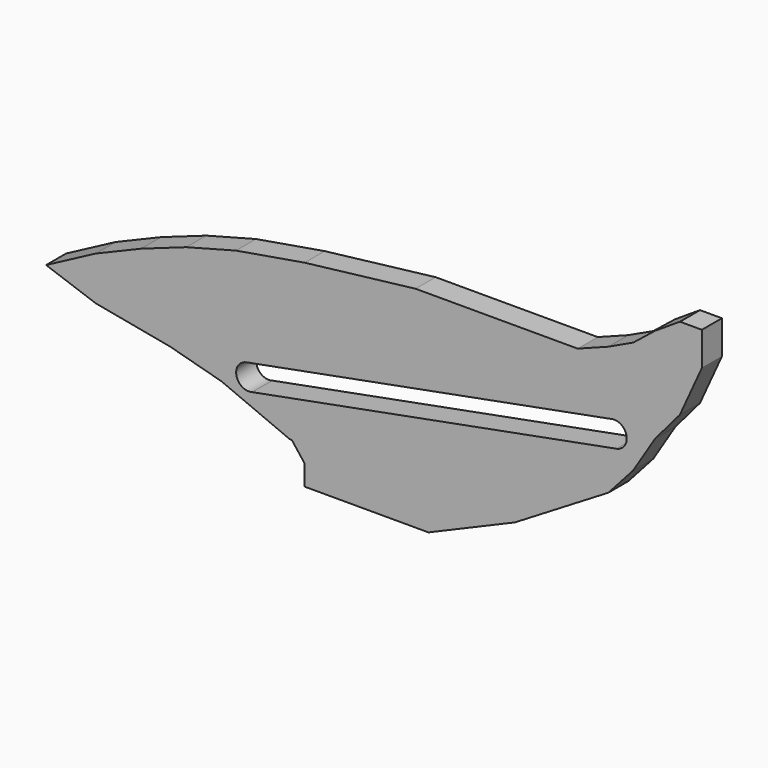
from build123d import *

# Parameters (mm, degrees)
F1_DEPTH = 3.175
F3_DEPTH = 9.144


with BuildPart() as f1:
    # F0 (on Front) → F1 (new body)
    with BuildSketch(Plane.XZ):
        Polygon((-42.153828, 7.319395), (-48.445281, 3.988625), (-42.153828, 1.768112), (-32.716647, 0), (-26.240151, -1.7477), (-17.573407, -5.396928), (-17.31674, -5.396928), (-15.692713, -7.484026), (-15.692713, -10.074626), (0, -10.074626), (10.953447, -5.396928), (22.796184, 1.768112), (25.94191, 5.283925), (28.717551, 9.724951), (31.86328, 13.425807), (34.638923, 19.532219), (34.638923, 21.752732), (34.638923, 23.788201), (31.86328, 23.788201), (28.717551, 21.752732), (25.94191, 19.532219), (22.796184, 18.051876), (18.910285, 16.571533), (10.953447, 16.571533), (-1.629462, 16.571533), (-15.692713, 14.906148), (-24.389723, 13.425807), (-30.681178, 11.760422), (-36.417503, 9.724951), align=None)
    extrude(amount=F1_DEPTH)

    # F2 (on Front) → F3 (cut)
    with BuildSketch(Plane.XZ):
        with BuildLine():
            Line((23.116694, 10.099179), (-23.068567, 1.39489))
            ThreePointArc((-23.068567, 1.39489), (-24.319738, -0.537971), (-22.327608, -1.69244))
            Line((-22.327608, -1.69244), (23.825702, 7.004356))
            ThreePointArc((23.825702, 7.004356), (25.080102, 8.920359), (23.116694, 10.099179))
        make_face()
    extrude(amount=F3_DEPTH, mode=Mode.SUBTRACT)


solid = f1.part
